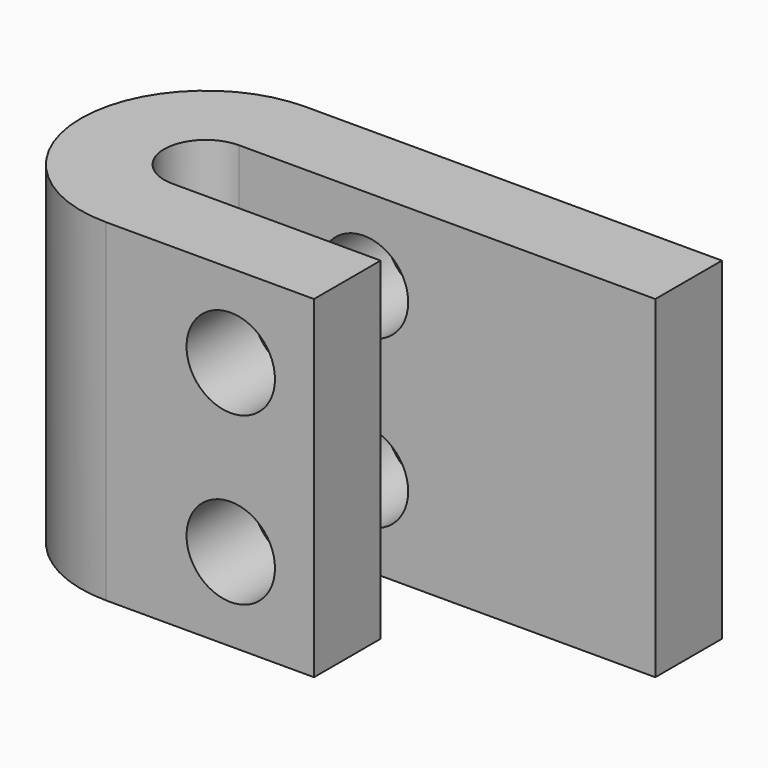
from build123d import *

# Parameters (mm, degrees)
F0_W          = 12.7
F0_H          = 50.8
F1_ANGLE_BACK = 90
F1_ANGLE      = 180
F2_DEPTH      = 63.5
F3_DEPTH      = 31.75
F5_D          = 13.49248


with BuildPart() as f1:
    # F0 (on Front) → F1 (revolve)
    with BuildSketch(Plane.XZ, mode=Mode.PRIVATE) as f1_sk:
        with Locations((-12.7, 15.5715065134)):
            Rectangle(F0_W, F0_H)
    revolve(f1_sk.sketch.rotate(Axis((0, 0, 15.5715065134), (0, 0, -1)), -F1_ANGLE_BACK), axis=Axis((0, 0, 15.5715065134), (0, 0, -1)), revolution_arc=F1_ANGLE)

    # F2 (add): a face of the model
    f2_faces = [f1.faces().sort_by_distance(p)[0] for p in [
        (0, 12.7, 15.5715065134),
    ]]
    extrude(f2_faces, amount=F2_DEPTH)

    # F3 (add): a face of the model
    f3_faces = [f1.faces().sort_by_distance(p)[0] for p in [
        (0, -12.7, 15.5715065134),
    ]]
    extrude(f3_faces, amount=F3_DEPTH)

    # F5 (through all)
    with Locations(Plane(origin=(0, 19.05, 0), x_dir=(-1, 0, 0), z_dir=(0, 1, 0))):
        with Locations((-19.05, 2.8715065134), (-19.05, 28.2715065134)):
            Hole(F5_D / 2)


solid = f1.part
